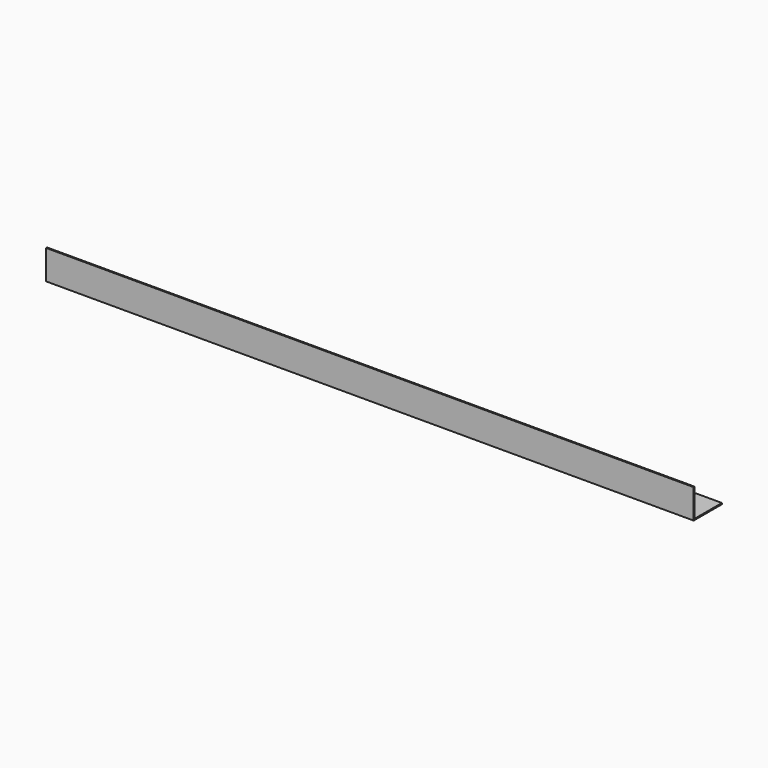
from build123d import *

# Parameters (mm, degrees)
F0_W     = 550
F0_H     = 30
F1_DEPTH = 1
F2_W     = 550
F2_H     = 1
F3_DEPTH = 24
F4_R     = 2
F5_DEPTH = 1.001


with BuildPart() as f1:
    # F0 (on Top) → F1 (new body)
    with BuildSketch(Plane.XY):
        with Locations((275, 15)):
            Rectangle(F0_W, F0_H)
    extrude(amount=F1_DEPTH)

    # F2 (on face) → F3 (join)
    with BuildSketch(Plane.XY.offset(1)):
        with Locations((275, 0.5)):
            Rectangle(F2_W, F2_H)
    extrude(amount=F3_DEPTH)

    # F4 (on face) → F5 (cut, through all)
    with BuildSketch(Plane.XY.offset(1)):
        with Locations((100, 20)):
            Circle(F4_R)
        with Locations((500, 20)):
            Circle(F4_R)
    extrude(amount=-F5_DEPTH, mode=Mode.SUBTRACT)


solid = f1.part
